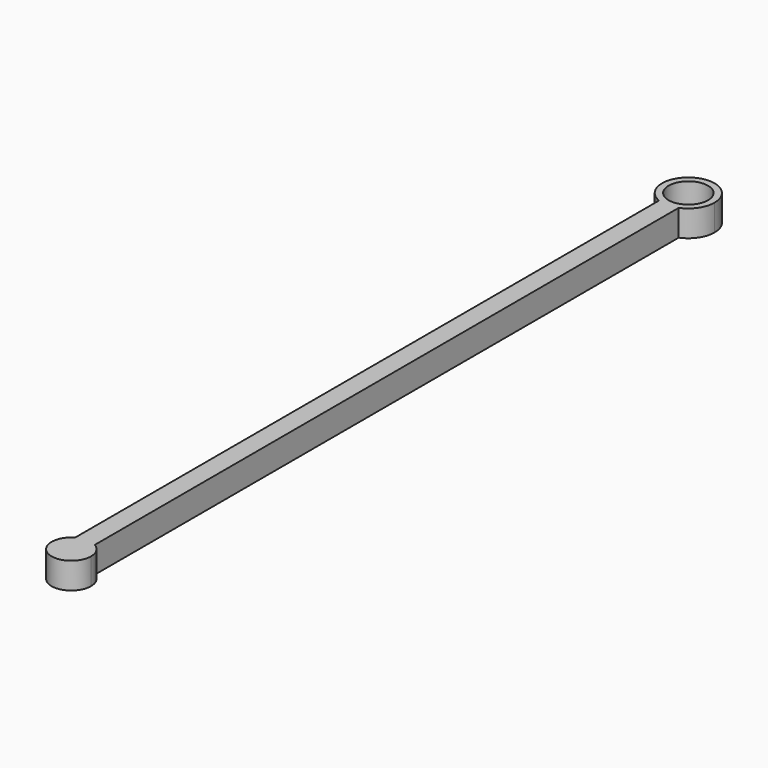
from build123d import *

# Parameters (mm, degrees)
F0_R     = 3.812453
F1_DEPTH = 5.08


with BuildPart() as f1:
    # F0 (on Top) → F1 (new body)
    with BuildSketch(Plane.XY):
        with BuildLine():
            ThreePointArc((1.905218, 41.257359), (4.212179, 43.126849), (5.08, 45.966557))
            ThreePointArc((5.08, 45.966557), (-2.839904, 50.178605), (-1.904782, 41.257183))
            ThreePointArc((-1.904782, 41.257183), (0.000236, 40.886557), (1.905218, 41.257359))
        make_face()
        with Locations((0, 45.966557)):
            Circle(F0_R, mode=Mode.SUBTRACT)
        with BuildLine():
            ThreePointArc((1.905218, 41.257359), (0.000236, 40.886557), (-1.904782, 41.257183))
            Line((-1.904782, 41.257183), (-1.904782, 40.316892))
            Line((-1.904782, 40.316892), (1.905218, 40.316892))
            Line((1.905218, 40.316892), (1.905218, 41.257359))
        make_face()
        Polygon((1.905218, 40.316892), (-1.904782, 40.316892), (-1.904782, -99.383108), (0, -99.383108), (1.905218, -99.383108), align=None)
        with BuildLine():
            Line((0, -99.383108), (-1.904782, -99.383108))
            Line((-1.904782, -99.383108), (-1.904782, -99.893425))
            ThreePointArc((-1.904782, -99.893425), (-0.985979, -99.512898), (0, -99.383108))
        make_face()
        with BuildLine():
            Line((1.905218, -99.893677), (1.905218, -99.383108))
            Line((1.905218, -99.383108), (0, -99.383108))
            ThreePointArc((0, -99.383108), (0.986222, -99.512963), (1.905218, -99.893677))
        make_face()
        with BuildLine():
            ThreePointArc((1.905218, -99.893677), (0.986222, -99.512963), (0, -99.383108))
            ThreePointArc((0, -99.383108), (-0.985979, -99.512898), (-1.904782, -99.893425))
            ThreePointArc((-1.904782, -99.893425), (-1.905109, -106.492602), (3.81, -103.193108))
            ThreePointArc((3.81, -103.193108), (3.29962, -101.288217), (1.905218, -99.893677))
        make_face()
    extrude(amount=F1_DEPTH)


solid = f1.part
